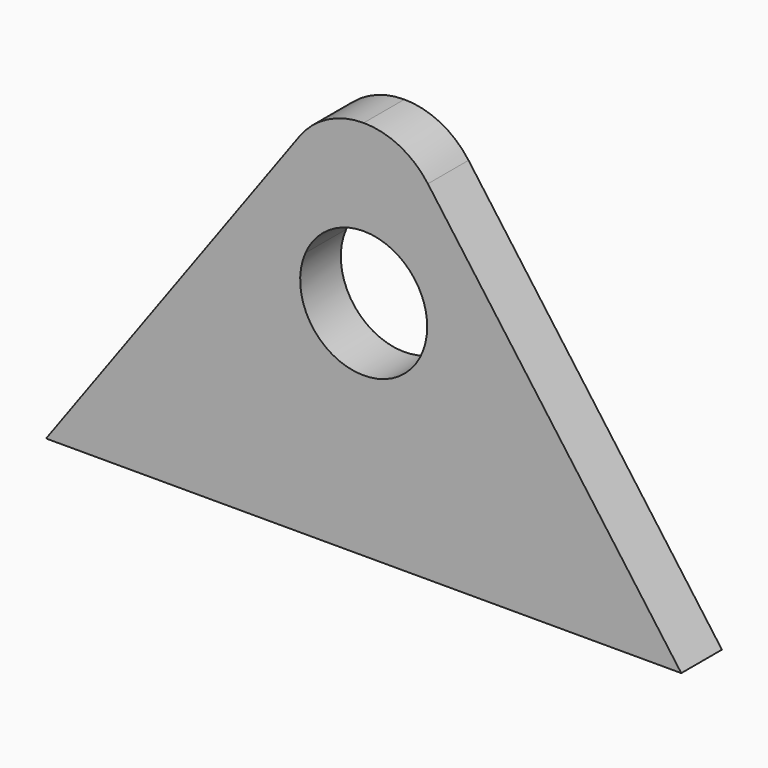
from build123d import *

# Parameters (mm, degrees)
F1_DEPTH = 16


with BuildPart() as f1:
    # F0 (on Front) → F1 (new body)
    with BuildSketch(Plane.XZ):
        with BuildLine():
            ThreePointArc((18.330303, -17), (23.27292, -9.130784), (25, 0))
            ThreePointArc((25, 0), (23.774644, 7.730867), (20.218695, 14.70389))
            ThreePointArc((20.218695, 14.70389), (11.344663, 22.277761), (0, 25))
            ThreePointArc((0, 25), (-11.344663, 22.277761), (-20.218695, 14.70389))
            ThreePointArc((-20.218695, 14.70389), (-24.95577, -1.486451), (-18.330303, -17))
            ThreePointArc((-18.330303, -17), (-10.954451, -8.266799), (0, -5))
            ThreePointArc((0, -5), (10.954451, -8.266799), (18.330303, -17))
        make_face()
        with BuildLine():
            ThreePointArc((20.218695, 14.70389), (23.774644, 7.730867), (25, 0))
            ThreePointArc((25, 0), (23.27292, -9.130784), (18.330303, -17))
            ThreePointArc((18.330303, -17), (19.578126, -20.913807), (20, -25))
            ThreePointArc((20, -25), (-4.086193, -44.578126), (-18.330303, -17))
            ThreePointArc((-18.330303, -17), (-24.95577, -1.486451), (-20.218695, 14.70389))
            Line((-20.218695, 14.70389), (-100, -95))
            Line((-100, -95), (0, -95))
            Line((0, -95), (100, -95))
            Line((100, -95), (20.218695, 14.70389))
        make_face()
    extrude(amount=F1_DEPTH)


solid = f1.part
